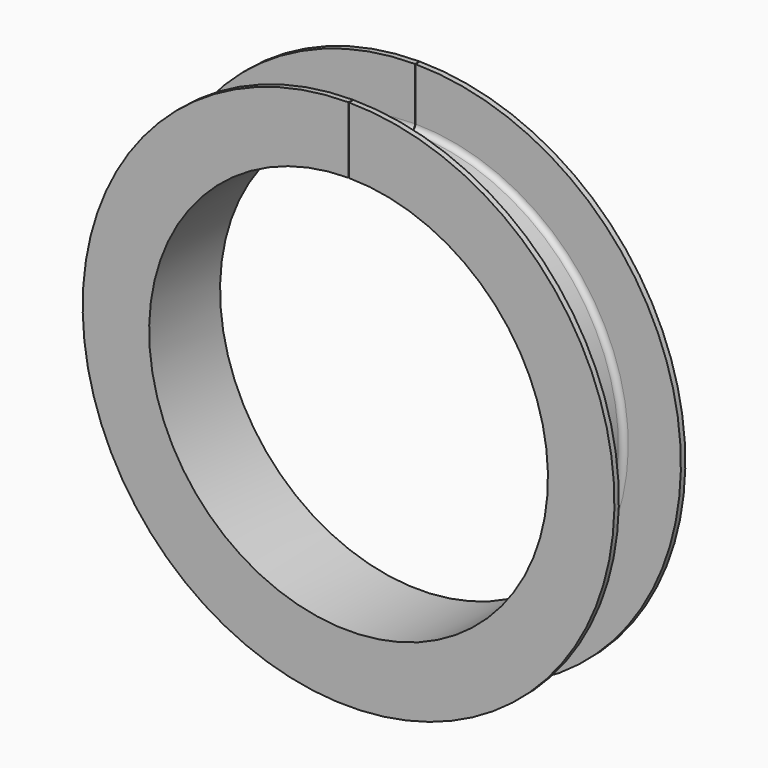
from build123d import *

# Parameters (mm, degrees)
F1_ANGLE = 359.9


with BuildPart() as f1:
    # F0 (on Right) → F1 (revolve)
    with BuildSketch(Plane.YZ):
        with BuildLine():
            Line((-50.8, 228.6), (50.8, 228.6))
            Line((50.8, 228.6), (50.8, 304.8))
            Line((50.8, 304.8), (44.45, 304.8))
            Line((44.45, 304.8), (44.45, 244.475))
            ThreePointArc((44.45, 244.475), (42.590128, 239.984872), (38.1, 238.125))
            Line((38.1, 238.125), (-38.1, 238.125))
            ThreePointArc((-38.1, 238.125), (-42.590128, 239.984872), (-44.45, 244.475))
            Line((-44.45, 244.475), (-44.45, 304.8))
            Line((-44.45, 304.8), (-50.8, 304.8))
            Line((-50.8, 304.8), (-50.8, 228.6))
        make_face()
    revolve(axis=Axis((0, -216.112137, 0), (0, -1, 0)), revolution_arc=F1_ANGLE)


solid = f1.part
